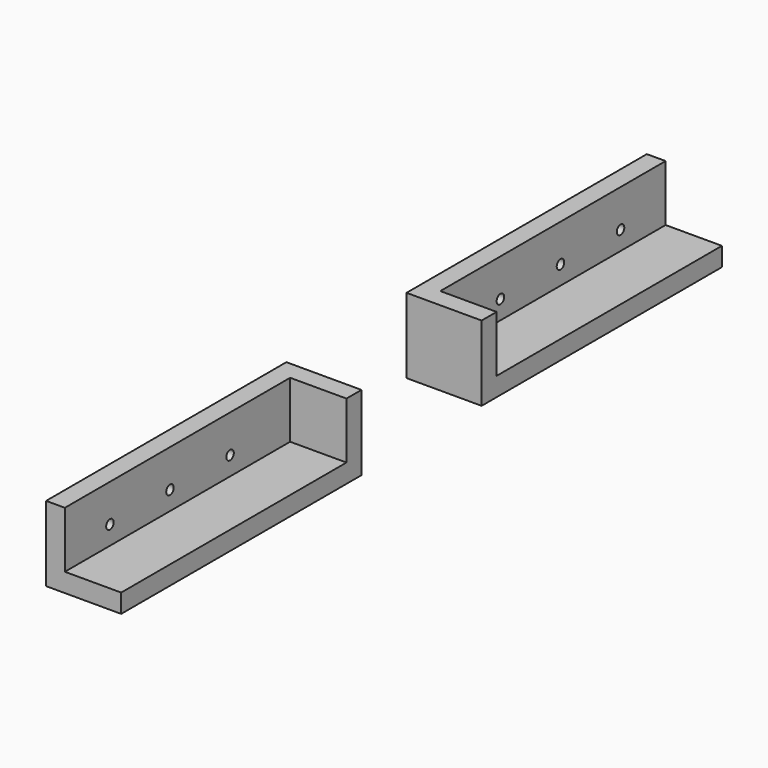
from build123d import *

# Parameters (mm, degrees)
F1_DEPTH = 101.6
F2_W     = 25.4
F2_H     = 25.4
F3_DEPTH = 6.35
F4_R     = 1.5875
F5_DEPTH = 25.4


with BuildPart() as f1:
    # F0 (on Front) → F1 (new body)
    with BuildSketch(Plane.XZ):
        Polygon((0, 25.4), (0, 0), (25.4, 0), (25.4, 6.35), (6.35, 6.35), (6.35, 25.4), align=None)
    extrude(amount=F1_DEPTH)

    # F2 (on Front) → F3 (join)
    with BuildSketch(Plane.XZ):
        with Locations((12.7, 12.7)):
            Rectangle(F2_W, F2_H)
    extrude(amount=F3_DEPTH)

    # F4 (on face) → F5 (cut)
    with BuildSketch(Plane.YZ.offset(6.35)):
        with Locations((-31.75, 12.7)):
            Circle(F4_R)
        with Locations((-57.15, 12.7)):
            Circle(F4_R)
        with Locations((-82.55, 12.7)):
            Circle(F4_R)
    extrude(amount=-F5_DEPTH, mode=Mode.SUBTRACT)


with BuildPart() as f7_1:
    # F7: instance of F1
    add(f1.part.mirror(Plane.XZ.offset(-25.4)))


solid = Compound([f1.part, f7_1.part])
